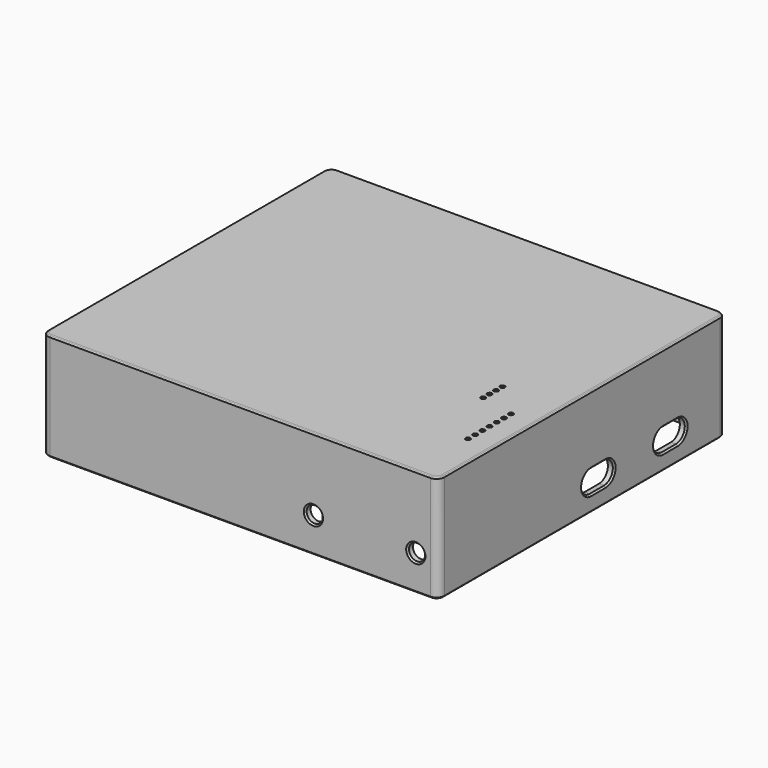
from build123d import *

# Parameters (mm, degrees)
PAD_DEPTH              = 34.65
SKETCH001_W            = 123.2
SKETCH001_H            = 111.8
POCKET_DEPTH           = 32.65
SKETCH002_W            = 10.2
SKETCH002_H            = 10.2
POCKET001_DEPTH        = 2.4
LINEARPATTERN_COUNT    = 4
LINEARPATTERN_PITCH    = 27.733333
SKETCH003_W            = 10.2
SKETCH003_H            = 10.2
POCKET002_DEPTH        = 2.4
POCKET003_DEPTH        = 2.2
LINEARPATTERN001_COUNT = 2
LINEARPATTERN001_PITCH = 29
SKETCH006_R            = 2.6
POCKET004_DEPTH        = 2.4
LINEARPATTERN002_COUNT = 2
LINEARPATTERN002_PITCH = 33
CHAMFER_SIZE           = 0.5
CHAMFER001_SIZE        = 0.5
CHAMFER002_SIZE        = 0.5
SKETCH013_R            = 0.55
POCKET006_DEPTH        = 2
LINEARPATTERN003_COUNT = 7
LINEARPATTERN003_PITCH = 2.894167
SKETCH014_R            = 0.55
POCKET007_DEPTH        = 2
LINEARPATTERN004_COUNT = 4
LINEARPATTERN004_PITCH = 2.583333
CHAMFER003_SIZE        = 0.2


with BuildPart() as part:
    # Sketch → Pad (new body)
    with BuildSketch(Plane.XY.offset(-7.2)):
        with BuildLine():
            Line((-61.5, -58), (61.2, -58))
            ThreePointArc((61.2, -58), (62.967767, -57.267767), (63.7, -55.5))
            Line((63.7, -55.5), (63.7, 55.5))
            ThreePointArc((63.7, 55.5), (62.967767, 57.267767), (61.2, 58))
            Line((61.2, 58), (-61.5, 58))
            ThreePointArc((-61.5, 58), (-63.267767, 57.267767), (-64, 55.5))
            Line((-64, 55.5), (-64, -55.5))
            ThreePointArc((-64, -55.5), (-63.267767, -57.267767), (-61.5, -58))
        make_face()
    extrude(amount=PAD_DEPTH)

    # Sketch001 → Pocket (cut)
    with BuildSketch(Plane.XY.offset(-7.2)):
        Rectangle(SKETCH001_W, SKETCH001_H)
    extrude(amount=POCKET_DEPTH, mode=Mode.SUBTRACT)

    # Sketch002 (on DatumPlane) → Pocket001 (cut)
    with BuildSketch(Plane(origin=(-64, 0, 0), x_dir=(0, -1, 0), z_dir=(-1, 0, 0))):
        with Locations((-49.08032, 5.1)):
            Rectangle(SKETCH002_W, SKETCH002_H)
    pocket001 = extrude(amount=-POCKET001_DEPTH, mode=Mode.SUBTRACT)

    # LinearPattern: Pocket001 ×4
    with Locations(*[(0, -i * LINEARPATTERN_PITCH, 0) for i in range(1, LINEARPATTERN_COUNT)]):
        add(pocket001, mode=Mode.SUBTRACT)

    # Sketch003 (on DatumPlane) → Pocket002 (cut)
    with BuildSketch(Plane(origin=(-64, 0, 0), x_dir=(0, -1, 0), z_dir=(-1, 0, 0))):
        with Locations((-36.269952, 5.1)):
            Rectangle(SKETCH003_W, SKETCH003_H)
        with Locations((-8.585899, 5.1)):
            Rectangle(SKETCH003_W, SKETCH003_H)
        with Locations((19.356451, 5.1)):
            Rectangle(SKETCH003_W, SKETCH003_H)
        with Locations((47.310611, 5.1)):
            Rectangle(SKETCH003_W, SKETCH003_H)
    extrude(amount=-POCKET002_DEPTH, mode=Mode.SUBTRACT)

    # Sketch004 (on DatumPlane) → Pocket003 (cut)
    with BuildSketch(Plane.YZ.offset(63.7)):
        with BuildLine():
            ThreePointArc((3.703058, 5.203055), (0.111649, 1.611646), (3.703058, -1.979763))
            Line((3.703058, -1.979763), (9.438421, -1.979763))
            ThreePointArc((9.438421, -1.979763), (13.02983, 1.611646), (9.438421, 5.203055))
            Line((3.703058, 5.203055), (9.438421, 5.203055))
        make_face()
    pocket003 = extrude(amount=-POCKET003_DEPTH, mode=Mode.SUBTRACT)

    # LinearPattern001: Pocket003 ×2
    with Locations(*[(0, i * LINEARPATTERN001_PITCH, 0) for i in range(1, LINEARPATTERN001_COUNT)]):
        add(pocket003, mode=Mode.SUBTRACT)

    # Sketch006 (on DatumPlane) → Pocket004 (cut)
    with BuildSketch(Plane.XZ.offset(58)):
        with Locations((56.500076, 4.15)):
            Circle(SKETCH006_R)
    pocket004 = extrude(amount=-POCKET004_DEPTH, mode=Mode.SUBTRACT)

    # LinearPattern002: Pocket004 ×2
    with Locations(*[(-i * LINEARPATTERN002_PITCH, 0, 0) for i in range(1, LINEARPATTERN002_COUNT)]):
        add(pocket004, mode=Mode.SUBTRACT)

    # Chamfer
    chamfer_edges = [part.edges().sort_by_distance(p)[0] for p in [
        (20.900076, -58, 4.15),
        (53.900076, -58, 4.15),
    ]]
    chamfer(chamfer_edges, length=CHAMFER_SIZE)

    # Chamfer001
    chamfer001_edges = [part.edges().sort_by_distance(p)[0] for p in [
        (-64, 55.5, 10.125),
        (-64, 0, -7.2),
        (-64, 0, 27.45),
        (-64, -55.5, 10.125),
        (-64, 54.18032, 5.1),
        (-64, 49.08032, 10.2),
        (-64, 49.08032, 0),
        (-64, 43.98032, 5.1),
        (-64, 41.369952, 5.1),
        (-64, 36.269952, 10.2),
        (-64, 31.169952, 5.1),
        (-64, 36.269952, 0),
        (-64, 26.446987, 5.1),
        (-64, 21.346987, 10.2),
        (-64, 21.346987, 0),
        (-64, 16.246987, 5.1),
        (-64, 13.685899, 5.1),
        (-64, 8.585899, 10.2),
        (-64, 3.485899, 5.1),
        (-64, 8.585899, 0),
        (-64, -1.286347, 5.1),
        (-64, -6.386347, 10.2),
        (-64, -6.386347, 0),
        (-64, -11.486347, 5.1),
        (-64, -14.256451, 5.1),
        (-64, -19.356451, 10.2),
        (-64, -24.456451, 5.1),
        (-64, -19.356451, 0),
        (-64, -29.01968, 5.1),
        (-64, -34.11968, 10.2),
        (-64, -34.11968, 0),
        (-64, -39.21968, 5.1),
        (-64, -42.210611, 5.1),
        (-64, -47.310611, 10.2),
        (-64, -52.410611, 5.1),
        (-64, -47.310611, 0),
    ]]
    chamfer(chamfer001_edges, length=CHAMFER001_SIZE)

    # Chamfer002
    chamfer002_edges = [part.edges().sort_by_distance(p)[0] for p in [
        (63.7, 6.57074, 5.203055),
        (63.7, 35.57074, 5.203055),
    ]]
    chamfer(chamfer002_edges, length=CHAMFER002_SIZE)

    # Sketch013 (on DatumPlane) → Pocket006 (cut)
    with BuildSketch(Plane.XY.offset(27.45)):
        with Locations((55.852455, -36.149361)):
            Circle(SKETCH013_R)
    pocket006 = extrude(amount=-POCKET006_DEPTH, mode=Mode.SUBTRACT)

    # LinearPattern003: Pocket006 ×7
    with Locations(*[(0, i * LINEARPATTERN003_PITCH, 0) for i in range(1, LINEARPATTERN003_COUNT)]):
        add(pocket006, mode=Mode.SUBTRACT)

    # Sketch014 (on DatumPlane) → Pocket007 (cut)
    with BuildSketch(Plane.XY.offset(27.45)):
        with Locations((44.875603, -16.296843)):
            Circle(SKETCH014_R)
    pocket007 = extrude(amount=-POCKET007_DEPTH, mode=Mode.SUBTRACT)

    # LinearPattern004: Pocket007 ×4
    with Locations(*[(0, i * LINEARPATTERN004_PITCH, 0) for i in range(1, LINEARPATTERN004_COUNT)]):
        add(pocket007, mode=Mode.SUBTRACT)

    # Chamfer003
    chamfer003_edges = [part.edges().sort_by_distance(p)[0] for p in [
        (-63.5, 0, 27.45),
        (-62.914214, 56.914214, 27.45),
        (-62.914214, -56.914214, 27.45),
        (-0.15, 57.5, 27.45),
        (-0.15, -57.5, 27.45),
        (62.614214, 56.914214, 27.45),
        (62.614214, -56.914214, 27.45),
        (63.2, 0, 27.45),
        (55.302455, -36.149361, 27.45),
        (55.302455, -33.255194, 27.45),
        (55.302455, -30.361028, 27.45),
        (55.302455, -27.466861, 27.45),
        (55.302455, -24.572694, 27.45),
        (55.302455, -21.678528, 27.45),
        (55.302455, -18.784361, 27.45),
        (44.325603, -16.296843, 27.45),
        (44.325603, -13.71351, 27.45),
        (44.325603, -11.130176, 27.45),
        (44.325603, -8.546843, 27.45),
    ]]
    chamfer(chamfer003_edges, length=CHAMFER003_SIZE)


solid = part.part
